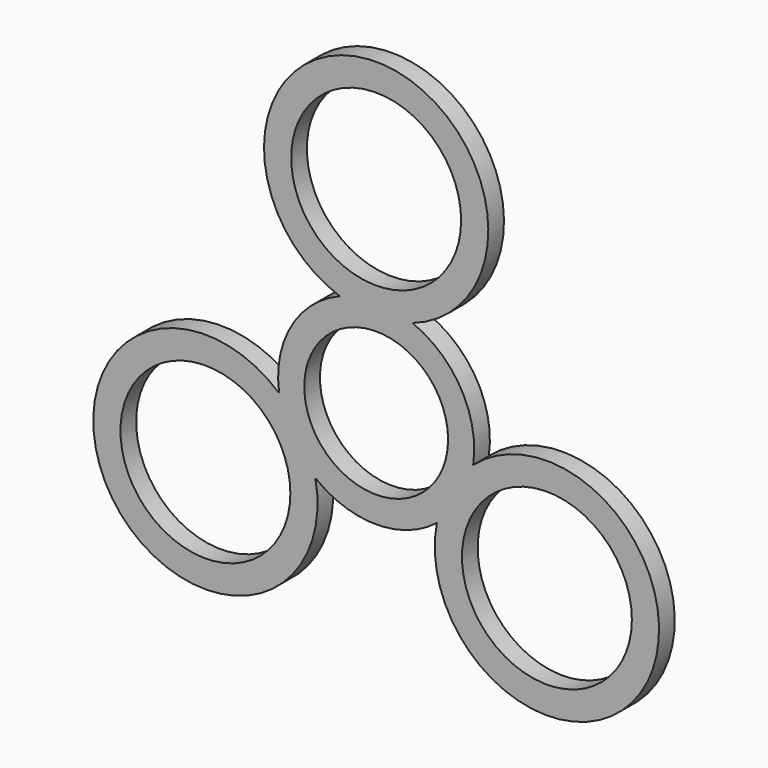
from build123d import *

# Parameters (mm, degrees)
F0_R     = 12.995
F0_R_2   = 11
F1_DEPTH = 3


with BuildPart() as f1:
    # F0 (on Front) → F1 (new body)
    with BuildSketch(Plane.XZ):
        with BuildLine():
            ThreePointArc((5.558917, 13.931922), (0, 47.313677), (-5.558917, 13.931922))
            ThreePointArc((-5.558917, 13.931922), (-12.990381, 7.5), (-14.844857, -2.151797))
            ThreePointArc((-14.844857, -2.151797), (-40.974846, -23.656839), (-9.285939, -11.780124))
            ThreePointArc((-9.285939, -11.780124), (0, -15), (9.285939, -11.780124))
            ThreePointArc((9.285939, -11.780124), (40.974846, -23.656839), (14.844857, -2.151797))
            ThreePointArc((14.844857, -2.151797), (12.990381, 7.5), (5.558917, 13.931922))
        make_face()
        with Locations((-26.119281, -15.079974)):
            Circle(F0_R, mode=Mode.SUBTRACT)
        with Locations((26.119281, -15.079974)):
            Circle(F0_R, mode=Mode.SUBTRACT)
        Circle(F0_R_2, mode=Mode.SUBTRACT)
        with Locations((0, 30.159948)):
            Circle(F0_R, mode=Mode.SUBTRACT)
    extrude(amount=F1_DEPTH)


solid = f1.part
